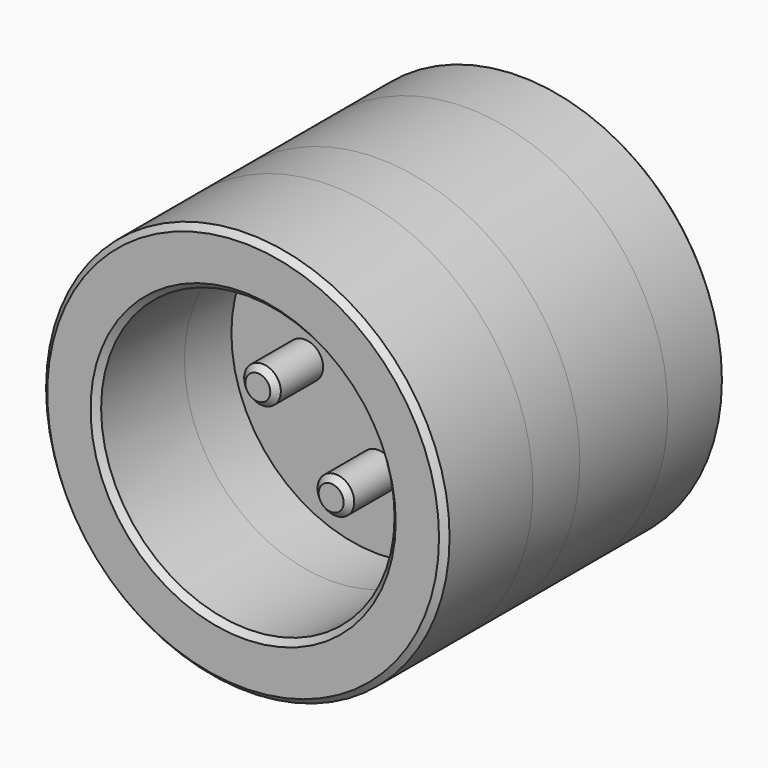
from build123d import *

# Parameters (mm, degrees)
F0_R     = 17.4625
F0_R_2   = 12.7
F1_DEPTH = 5.08
F0_R_3   = 1.5875
F2_R     = 17.4625
F3_DEPTH = 9.525
F4_DEPTH = 9.525
F5_DEPTH = 6.35
F6_W     = 9.652
F6_H     = 9.652
F7_DEPTH = 12.7
F8_R     = 0.762
F9_SIZE  = 0.508


with BuildPart() as f1:
    # F0 (on Front) → F1 (new body)
    with BuildSketch(Plane.XZ):
        Circle(F0_R)
        Circle(F0_R_2, mode=Mode.SUBTRACT)
    extrude(amount=F1_DEPTH)



with BuildPart() as f1b:
    # F0 (on Front) → F1, piece 2 (new body)
    with BuildSketch(Plane.XZ):
        with Locations((0, 6.35)):
            Circle(F0_R_3)
    extrude(amount=F1_DEPTH)


with BuildPart() as f1c:
    # F0 (on Front) → F1, piece 3 (new body)
    with BuildSketch(Plane.XZ):
        with Locations((6.35, 0)):
            Circle(F0_R_3)
    extrude(amount=F1_DEPTH)


with BuildPart() as f1d:
    # F0 (on Front) → F1, piece 4 (new body)
    with BuildSketch(Plane.XZ):
        with Locations((0, -6.35)):
            Circle(F0_R_3)
    extrude(amount=F1_DEPTH)


with BuildPart() as f1e:
    # F0 (on Front) → F1, piece 5 (new body)
    with BuildSketch(Plane.XZ):
        with Locations((-6.35, 0)):
            Circle(F0_R_3)
    extrude(amount=F1_DEPTH)


with BuildPart() as f1_1:
    add(f1.part)

    add(f1b.part)  # F3 merges F1b

    add(f1c.part)  # F3 merges F1c

    add(f1d.part)  # F3 merges F1d

    add(f1e.part)  # F3 merges F1e
    # F2 (on face) → F3 (join)
    with BuildSketch(Plane(origin=(0, 0, 0), x_dir=(-1, 0, 0), z_dir=(0, 1, 0))):
        Circle(F2_R)
    extrude(amount=F3_DEPTH)

    # F4 (add): a face of the model
    f4_faces = [f1_1.faces().sort_by_distance(p)[0] for p in [
        (-16.9685859133, -5.08, 0),
    ]]
    extrude(f4_faces, amount=F4_DEPTH)

    # F5 (add): a face of the model
    f5_faces = [f1_1.faces().sort_by_distance(p)[0] for p in [
        (0, 9.525, 0),
    ]]
    extrude(f5_faces, amount=F5_DEPTH)

    # F6 (on face) → F7 (cut)
    with BuildSketch(Plane(origin=(0, 15.875, 0), x_dir=(-1, 0, 0), z_dir=(0, 1, 0))):
        Rectangle(F6_W, F6_H)
    extrude(amount=-F7_DEPTH, mode=Mode.SUBTRACT)

    # F8
    f8_edges = [f1_1.edges().sort_by_distance(p)[0] for p in [
        (4.826, 9.525, 4.826),
        (4.826, 9.525, -4.826),
        (-4.826, 9.525, -4.826),
        (-4.826, 9.525, 4.826),
    ]]
    fillet(f8_edges, radius=F8_R)

    # F9
    f9_edges = [f1_1.edges().sort_by_distance(p)[0] for p in [
        (0, 15.875, 4.826),
        (17.4625, 15.875, 0),
        (-17.4625, -14.605, 0),
        (-12.7, -14.605, 0),
        (-1.5875, -5.08, -6.35),
        (4.7625, -5.08, 0),
        (-1.5875, -5.08, 6.35),
        (-7.9375, -5.08, 0),
    ]]
    chamfer(f9_edges, length=F9_SIZE)


solid = f1_1.part
